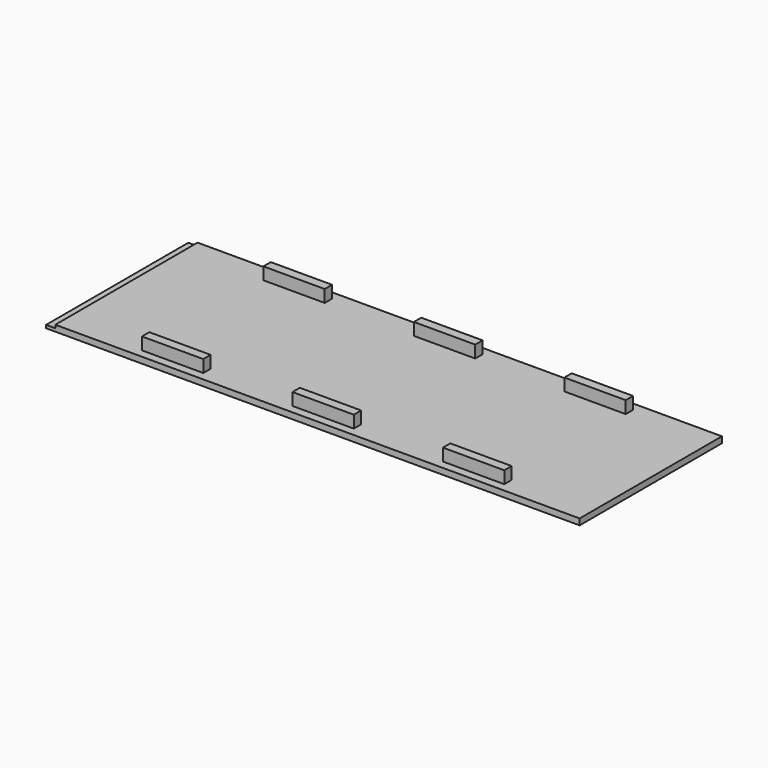
from build123d import *

# Parameters (mm, degrees)
BOX006_W     = 20
BOX006_H     = 3
BOX006_DEPTH = 6
BOX005_W     = 20
BOX005_H     = 3
BOX005_DEPTH = 6
BOX004_W     = 20
BOX004_H     = 3
BOX004_DEPTH = 6
BOX003_W     = 20
BOX003_H     = 3
BOX003_DEPTH = 6
BOX002_W     = 20
BOX002_H     = 3
BOX002_DEPTH = 6
BOX001_W     = 20
BOX001_H     = 3
BOX001_DEPTH = 6
BOX_W        = 171
BOX_H        = 58
BOX_DEPTH    = 2
BOX007_W     = 3
BOX007_H     = 58
BOX007_DEPTH = 1


with BuildPart() as cube006:
    # Box006 → Box006 (new body)
    with BuildSketch(Plane(origin=(127.22, 52.25, 0), x_dir=(1, 0, 0), z_dir=(0, 0, 1))):
        with Locations((10, 1.5)):
            Rectangle(BOX006_W, BOX006_H)
    extrude(amount=BOX006_DEPTH)


with BuildPart() as cube005:
    # Box005 → Box005 (new body)
    with BuildSketch(Plane(origin=(78.15, 52.25, 0), x_dir=(1, 0, 0), z_dir=(0, 0, 1))):
        with Locations((10, 1.5)):
            Rectangle(BOX005_W, BOX005_H)
    extrude(amount=BOX005_DEPTH)


with BuildPart() as cube004:
    # Box004 → Box004 (new body)
    with BuildSketch(Plane(origin=(29.07, 52.25, 0), x_dir=(1, 0, 0), z_dir=(0, 0, 1))):
        with Locations((10, 1.5)):
            Rectangle(BOX004_W, BOX004_H)
    extrude(amount=BOX004_DEPTH)


with BuildPart() as cube003:
    # Box003 → Box003 (new body)
    with BuildSketch(Plane(origin=(127.22, 2.75, 0), x_dir=(1, 0, 0), z_dir=(0, 0, 1))):
        with Locations((10, 1.5)):
            Rectangle(BOX003_W, BOX003_H)
    extrude(amount=BOX003_DEPTH)


with BuildPart() as cube002:
    # Box002 → Box002 (new body)
    with BuildSketch(Plane(origin=(78.15, 2.75, 0), x_dir=(1, 0, 0), z_dir=(0, 0, 1))):
        with Locations((10, 1.5)):
            Rectangle(BOX002_W, BOX002_H)
    extrude(amount=BOX002_DEPTH)


with BuildPart() as cube001:
    # Box001 → Box001 (new body)
    with BuildSketch(Plane(origin=(29.07, 2.75, 0), x_dir=(1, 0, 0), z_dir=(0, 0, 1))):
        with Locations((10, 1.5)):
            Rectangle(BOX001_W, BOX001_H)
    extrude(amount=BOX001_DEPTH)


with BuildPart() as cube:
    # Box → Box (new body)
    with BuildSketch(Plane(origin=(3, 0, 0), x_dir=(1, 0, 0), z_dir=(0, 0, 1))):
        with Locations((85.5, 29)):
            Rectangle(BOX_W, BOX_H)
    extrude(amount=BOX_DEPTH)


with BuildPart() as fusion:
    # Box007 → Box007 (new body)
    with BuildSketch(Plane.XY):
        with Locations((1.5, 29)):
            Rectangle(BOX007_W, BOX007_H)
    extrude(amount=BOX007_DEPTH)

    # Fusion: union Cube006, Cube005, Cube004, Cube003, Cube002, Cube001, Cube
    add(cube006.part)
    add(cube005.part)
    add(cube004.part)
    add(cube003.part)
    add(cube002.part)
    add(cube001.part)
    add(cube.part)


solid = fusion.part
